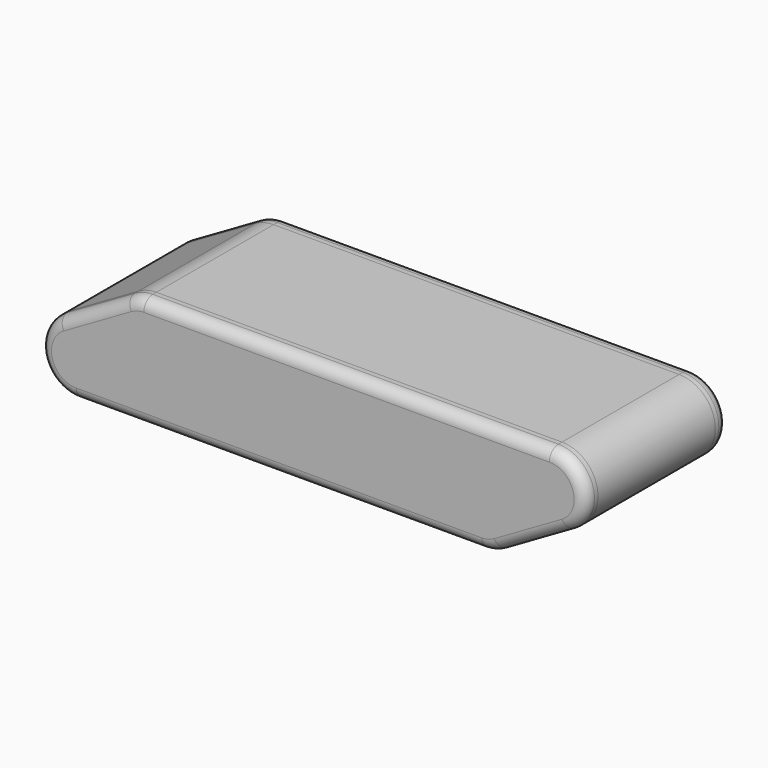
from build123d import *

# Parameters (mm, degrees)
F2_DEPTH = 65
F4_DEPTH = 5
F6_DEPTH = 2
F7_R     = 5


with BuildPart() as f2:
    # F1 (on Front) → F2 (new body)
    with BuildSketch(Plane.XZ):
        with BuildLine():
            Line((210, 33.3205080757), (30, 33.3205080757))
            ThreePointArc((30, 33.3205080757), (25.8588952784, 32.7753212963), (22, 31.1769145362))
            Line((22, 31.1769145362), (-8, 13.8564064606))
            ThreePointArc((-8, 13.8564064606), (-15.4548132206, -4.1411047216), (0, -16))
            Line((0, -16), (180, -16))
            ThreePointArc((180, -16), (184.1411047216, -15.4548132206), (188, -13.8564064606))
            Line((188, -13.8564064606), (218, 3.4641016151))
            ThreePointArc((218, 3.4641016151), (225.4548132206, 21.4616127973), (210, 33.3205080757))
        make_face()
        with BuildLine():
            ThreePointArc((23, 29.4448637287), (26.3765333686, 30.8434696437), (30, 31.3205080757))
            Line((30, 31.3205080757), (210, 31.3205080757))
            ThreePointArc((210, 31.3205080757), (223.522961568, 20.9439747071), (217, 5.1961524227))
            Line((217, 5.1961524227), (187, -12.124355653))
            ThreePointArc((187, -12.124355653), (183.6234666314, -13.522961568), (180, -14))
            Line((180, -14), (0, -14))
            ThreePointArc((0, -14), (-13.522961568, -3.6234666314), (-7, 12.124355653))
            Line((-7, 12.124355653), (23, 29.4448637287))
        make_face(mode=Mode.SUBTRACT)
    extrude(amount=F2_DEPTH)


with BuildPart() as f4:
    # F3 (on face) → F4 (new body)
    with BuildSketch(Plane.XZ.offset(65)):
        with BuildLine():
            Line((22, 31.1769145362), (-8, 13.8564064606))
            ThreePointArc((-8, 13.8564064606), (-15.4548132206, -4.1411047216), (0, -16))
            Line((0, -16), (180, -16))
            ThreePointArc((180, -16), (184.1411047216, -15.4548132206), (188, -13.8564064606))
            Line((188, -13.8564064606), (218, 3.4641016151))
            ThreePointArc((218, 3.4641016151), (225.4548132206, 21.4616127973), (210, 33.3205080757))
            Line((210, 33.3205080757), (30, 33.3205080757))
            ThreePointArc((30, 33.3205080757), (25.8588952784, 32.7753212963), (22, 31.1769145362))
        make_face()
        with BuildLine():
            ThreePointArc((23, 29.4448637287), (26.3765333686, 30.8434696437), (30, 31.3205080757))
            Line((30, 31.3205080757), (210, 31.3205080757))
            ThreePointArc((210, 31.3205080757), (223.522961568, 20.9439747071), (217, 5.1961524227))
            Line((217, 5.1961524227), (187, -12.124355653))
            ThreePointArc((187, -12.124355653), (183.6234666314, -13.522961568), (180, -14))
            Line((180, -14), (0, -14))
            ThreePointArc((0, -14), (-13.522961568, -3.6234666314), (-7, 12.124355653))
            Line((-7, 12.124355653), (23, 29.4448637287))
        make_face(mode=Mode.SUBTRACT)
    extrude(amount=F4_DEPTH)

    # F5 (on face) → F6 (join)
    with BuildSketch(Plane.XZ.offset(70)):
        with BuildLine():
            ThreePointArc((30, 33.3205080757), (25.8588952784, 32.7753212963), (22, 31.1769145362))
            Line((22, 31.1769145362), (-8, 13.8564064606))
            ThreePointArc((-8, 13.8564064606), (-15.4548132206, -4.1411047216), (0, -16))
            Line((0, -16), (180, -16))
            ThreePointArc((180, -16), (184.1411047216, -15.4548132206), (188, -13.8564064606))
            Line((188, -13.8564064606), (218, 3.4641016151))
            ThreePointArc((218, 3.4641016151), (225.4548132206, 21.4616127973), (210, 33.3205080757))
            Line((210, 33.3205080757), (30, 33.3205080757))
        make_face()
        with BuildLine():
            ThreePointArc((0, -14), (-13.522961568, -3.6234666314), (-7, 12.124355653))
            Line((-7, 12.124355653), (23, 29.4448637287))
            ThreePointArc((23, 29.4448637287), (26.3765333686, 30.8434696437), (30, 31.3205080757))
            Line((30, 31.3205080757), (210, 31.3205080757))
            ThreePointArc((210, 31.3205080757), (223.522961568, 20.9439747071), (217, 5.1961524227))
            Line((217, 5.1961524227), (187, -12.124355653))
            ThreePointArc((187, -12.124355653), (183.6234666314, -13.522961568), (180, -14))
            Line((180, -14), (0, -14))
        make_face(mode=Mode.SUBTRACT)
        with BuildLine():
            Line((23, 29.4448637287), (-7, 12.124355653))
            ThreePointArc((-7, 12.124355653), (-13.522961568, -3.6234666314), (0, -14))
            Line((0, -14), (180, -14))
            ThreePointArc((180, -14), (183.6234666314, -13.522961568), (187, -12.124355653))
            Line((187, -12.124355653), (217, 5.1961524227))
            ThreePointArc((217, 5.1961524227), (223.522961568, 20.9439747071), (210, 31.3205080757))
            Line((210, 31.3205080757), (30, 31.3205080757))
            ThreePointArc((30, 31.3205080757), (26.3765333686, 30.8434696437), (23, 29.4448637287))
        make_face()
    extrude(amount=F6_DEPTH)

    # F7
    f7_edges = [f4.edges().sort_by_distance(p)[0] for p in [
        (120, -72, 33.320508),
        (25.858895, -72, 32.775321),
        (7, -72, 22.51666),
        (-15.454813, -72, -4.141105),
        (90, -72, -16),
        (184.141105, -72, -15.454813),
        (203, -72, -5.196152),
        (225.454813, -72, 21.461613),
    ]]
    fillet(f7_edges, radius=F7_R)


with BuildPart() as f9_1:
    # F9: instance of F4
    add(f4.part.mirror(Plane.XZ.offset(32.5)))


solid = Compound([f2.part, f4.part, f9_1.part])
